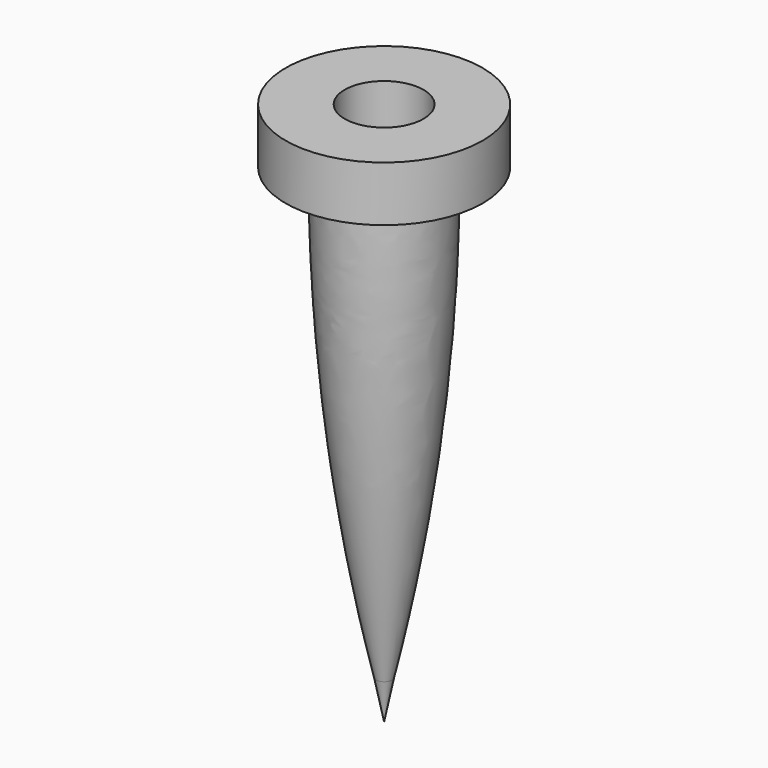
from build123d import *


with BuildPart() as part:
    # Sketch → Revolution (revolve)
    with BuildSketch(Plane.XZ):
        with BuildLine():
            Line((7.5, 62), (12.5, 62))
            Line((12.5, 62), (12.5, 69))
            Line((12.5, 69), (5, 69))
            Line((5, 69), (5, 39))
            Line((5, 39), (0, 39))
            Line((0, 39), (0, 0))
            Line((0, 0), (1, 5))
            ThreePointArc((1, 5), (5.869751, 33.315292), (7.5, 62))
        make_face()
    revolve(axis=Axis((0, 0, 0), (0, 0, 1)))


solid = part.part
